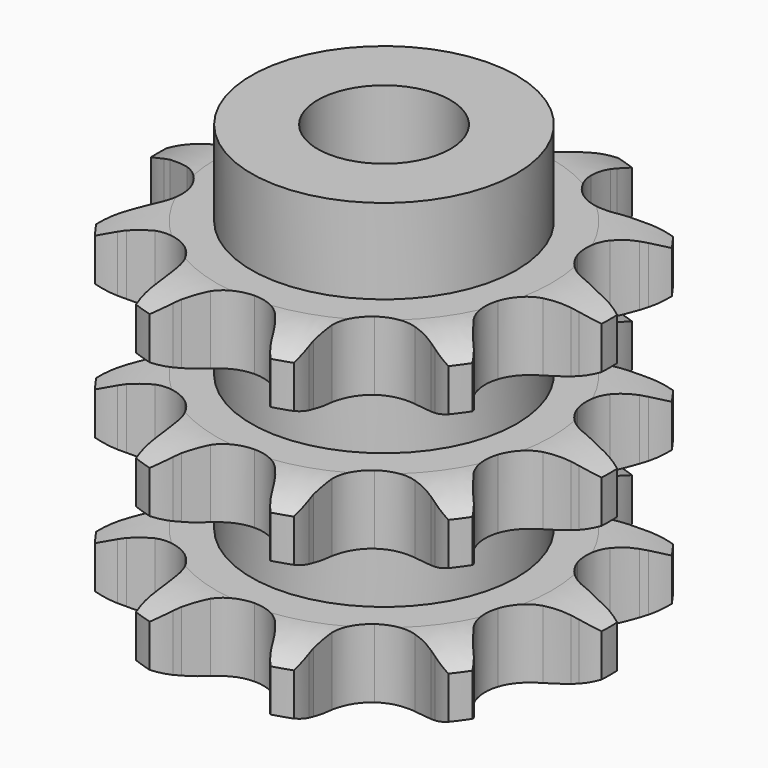
from build123d import *

# Parameters (mm, degrees)
PAD_DEPTH         = 25.6
SKETCH001_R       = 10
PAD001_DEPTH      = 32
SKETCH002_R       = 5
POCKET_DEPTH      = 0.001
POCKET_DEPTH_BACK = 32.001


with BuildPart() as part:
    # Sprocket → Pad (new body)
    with BuildSketch(Plane.XY):
        with BuildLine():
            ThreePointArc((-5.600971, 17.238017), (-4.532726, 16.362923), (-3.721848, 15.245152))
            Line((-3.721848, 15.245152), (-3.461214, 14.767115))
            ThreePointArc((-3.461214, 14.767115), (-2.988984, 14.002509), (-2.436938, 13.293376))
            ThreePointArc((-2.436938, 13.293376), (-1.339034, 12.473532), (0, 12.182799))
            ThreePointArc((0, 12.182799), (1.339034, 12.473532), (2.436938, 13.293376))
            ThreePointArc((2.436938, 13.293376), (2.988984, 14.002509), (3.461214, 14.767115))
            Line((3.461214, 14.767115), (3.721848, 15.245152))
            ThreePointArc((3.721848, 15.245152), (4.532726, 16.362923), (5.600971, 17.238017))
            ThreePointArc((5.600971, 17.238017), (5.950833, 15.902153), (5.949837, 14.521235))
            Line((5.949837, 14.521235), (5.879711, 13.981297))
            ThreePointArc((5.879711, 13.981297), (5.81233, 13.085148), (5.842126, 12.186963))
            ThreePointArc((5.842126, 12.186963), (6.248457, 10.878364), (7.160869, 9.856091))
            ThreePointArc((7.160869, 9.856091), (8.415059, 9.304234), (9.785175, 9.32217))
            Line((9.785175, 9.32217), (11.480073, 9.912396))
            ThreePointArc((11.480073, 9.912396), (11.72408, 10.033198), (11.971914, 10.14594))
            ThreePointArc((11.971914, 10.14594), (13.284938, 10.573614), (14.663533, 10.65368))
            ThreePointArc((14.663533, 10.65368), (14.161376, 9.3673), (13.348887, 8.250699))
            Line((13.348887, 8.250699), (12.974787, 7.8551))
            ThreePointArc((12.974787, 7.8551), (12.393531, 7.169706), (11.889696, 6.425545))
            ThreePointArc((11.889696, 6.425545), (11.449249, 5.12803), (11.58653, 3.764692))
            ThreePointArc((11.58653, 3.764692), (12.276818, 2.581036), (13.395807, 1.790213))
            Line((13.395807, 1.790213), (15.113935, 1.271479))
            ThreePointArc((15.113935, 1.271479), (15.382346, 1.225786), (15.649116, 1.171323))
            ThreePointArc((15.649116, 1.171323), (16.962754, 0.745543), (18.125123, 0))
            ThreePointArc((18.125123, 0), (16.962754, -0.745543), (15.649116, -1.171323))
            Line((15.649116, -1.171323), (15.113935, -1.271479))
            ThreePointArc((15.113935, -1.271479), (14.240824, -1.484321), (13.395807, -1.790213))
            ThreePointArc((13.395807, -1.790213), (12.276818, -2.581036), (11.58653, -3.764692))
            ThreePointArc((11.58653, -3.764692), (11.449249, -5.12803), (11.889696, -6.425545))
            Line((11.889696, -6.425545), (12.974787, -7.8551))
            ThreePointArc((12.974787, -7.8551), (13.165078, -8.049834), (13.348887, -8.250699))
            ThreePointArc((13.348887, -8.250699), (14.161376, -9.3673), (14.663533, -10.65368))
            ThreePointArc((14.663533, -10.65368), (13.284938, -10.573614), (11.971914, -10.14594))
            Line((11.971914, -10.14594), (11.480073, -9.912396))
            ThreePointArc((11.480073, -9.912396), (10.648607, -9.571387), (9.785175, -9.32217))
            ThreePointArc((9.785175, -9.32217), (8.415059, -9.304234), (7.160869, -9.856091))
            ThreePointArc((7.160869, -9.856091), (6.248457, -10.878364), (5.842126, -12.186963))
            Line((5.842126, -12.186963), (5.879711, -13.981297))
            ThreePointArc((5.879711, -13.981297), (5.919198, -14.250691), (5.949837, -14.521235))
            ThreePointArc((5.949837, -14.521235), (5.950833, -15.902153), (5.600971, -17.238017))
            ThreePointArc((5.600971, -17.238017), (4.532726, -16.362923), (3.721848, -15.245152))
            Line((3.721848, -15.245152), (3.461214, -14.767115))
            ThreePointArc((3.461214, -14.767115), (2.988984, -14.002509), (2.436938, -13.293376))
            ThreePointArc((2.436938, -13.293376), (1.339034, -12.473532), (0, -12.182799))
            ThreePointArc((0, -12.182799), (-1.339034, -12.473532), (-2.436938, -13.293376))
            Line((-2.436938, -13.293376), (-3.461214, -14.767115))
            ThreePointArc((-3.461214, -14.767115), (-3.587614, -15.008269), (-3.721848, -15.245152))
            ThreePointArc((-3.721848, -15.245152), (-4.532726, -16.362923), (-5.600971, -17.238017))
            ThreePointArc((-5.600971, -17.238017), (-5.950833, -15.902153), (-5.949837, -14.521235))
            Line((-5.949837, -14.521235), (-5.879711, -13.981297))
            ThreePointArc((-5.879711, -13.981297), (-5.81233, -13.085148), (-5.842126, -12.186963))
            ThreePointArc((-5.842126, -12.186963), (-6.248457, -10.878364), (-7.160869, -9.856091))
            ThreePointArc((-7.160869, -9.856091), (-8.415059, -9.304234), (-9.785175, -9.32217))
            Line((-9.785175, -9.32217), (-11.480073, -9.912396))
            ThreePointArc((-11.480073, -9.912396), (-11.72408, -10.033198), (-11.971914, -10.14594))
            ThreePointArc((-11.971914, -10.14594), (-13.284938, -10.573614), (-14.663533, -10.65368))
            ThreePointArc((-14.663533, -10.65368), (-14.161376, -9.3673), (-13.348887, -8.250699))
            Line((-13.348887, -8.250699), (-12.974787, -7.8551))
            ThreePointArc((-12.974787, -7.8551), (-12.393531, -7.169706), (-11.889696, -6.425545))
            ThreePointArc((-11.889696, -6.425545), (-11.449249, -5.12803), (-11.58653, -3.764692))
            ThreePointArc((-11.58653, -3.764692), (-12.276818, -2.581036), (-13.395807, -1.790213))
            Line((-13.395807, -1.790213), (-15.113935, -1.271479))
            ThreePointArc((-15.113935, -1.271479), (-15.382346, -1.225786), (-15.649116, -1.171323))
            ThreePointArc((-15.649116, -1.171323), (-16.962754, -0.745543), (-18.125123, 0))
            ThreePointArc((-18.125123, 0), (-16.962754, 0.745543), (-15.649116, 1.171323))
            Line((-15.649116, 1.171323), (-15.113935, 1.271479))
            ThreePointArc((-15.113935, 1.271479), (-14.240824, 1.484321), (-13.395807, 1.790213))
            ThreePointArc((-13.395807, 1.790213), (-12.276818, 2.581036), (-11.58653, 3.764692))
            ThreePointArc((-11.58653, 3.764692), (-11.449249, 5.12803), (-11.889696, 6.425545))
            Line((-11.889696, 6.425545), (-12.974787, 7.8551))
            ThreePointArc((-12.974787, 7.8551), (-13.165078, 8.049834), (-13.348887, 8.250699))
            ThreePointArc((-13.348887, 8.250699), (-14.161376, 9.3673), (-14.663533, 10.65368))
            ThreePointArc((-14.663533, 10.65368), (-13.284938, 10.573614), (-11.971914, 10.14594))
            Line((-11.971914, 10.14594), (-11.480073, 9.912396))
            ThreePointArc((-11.480073, 9.912396), (-10.648607, 9.571387), (-9.785175, 9.32217))
            ThreePointArc((-9.785175, 9.32217), (-8.415059, 9.304234), (-7.160869, 9.856091))
            ThreePointArc((-7.160869, 9.856091), (-6.248457, 10.878364), (-5.842126, 12.186963))
            Line((-5.842126, 12.186963), (-5.879711, 13.981297))
            ThreePointArc((-5.879711, 13.981297), (-5.919198, 14.250691), (-5.949837, 14.521235))
            ThreePointArc((-5.949837, 14.521235), (-5.950833, 15.902153), (-5.600971, 17.238017))
        make_face()
    extrude(amount=PAD_DEPTH)

    # Sketch → Groove (revolve, cut)
    with BuildSketch(Plane.XZ):
        with BuildLine():
            ThreePointArc((12.641101, 0), (14.877169, 0.253206), (17, 1))
            Line((17, 1), (17, 4.2))
            ThreePointArc((17, 4.2), (14.877169, 4.946794), (12.641101, 5.2))
            Line((10, 5.2), (12.641101, 5.2))
            Line((10, 5.2), (10, 10.2))
            Line((10, 10.2), (12.641101, 10.2))
            ThreePointArc((12.641101, 10.2), (14.877169, 10.453206), (17, 11.2))
            Line((17, 14.4), (17, 11.2))
            ThreePointArc((17, 14.4), (14.877169, 15.146794), (12.641101, 15.4))
            Line((10, 15.4), (12.641101, 15.4))
            Line((10, 20.4), (10, 15.4))
            Line((12.641101, 20.4), (10, 20.4))
            ThreePointArc((12.641101, 20.4), (14.877169, 20.653206), (17, 21.4))
            Line((17, 21.4), (17, 24.6))
            ThreePointArc((17, 24.6), (14.877169, 25.346794), (12.641101, 25.6))
            Line((12.641101, 25.6), (27, 25.6))
            Line((27, 25.6), (27, 0))
            Line((12.641101, 0), (27, 0))
        make_face()
    revolve(axis=Axis((0, 0, 0), (0, 0, 1)), mode=Mode.SUBTRACT)

    # Sketch001 → Pad001 (join)
    with BuildSketch(Plane.XY):
        Circle(SKETCH001_R)
    extrude(amount=PAD001_DEPTH)

    # Sketch002 → Pocket (cut, two sides)
    with BuildSketch(Plane.XY) as pocket_sk:
        Circle(SKETCH002_R)
    extrude(amount=-POCKET_DEPTH, mode=Mode.SUBTRACT)
    extrude(pocket_sk.sketch, amount=POCKET_DEPTH_BACK, mode=Mode.SUBTRACT)


solid = part.part
